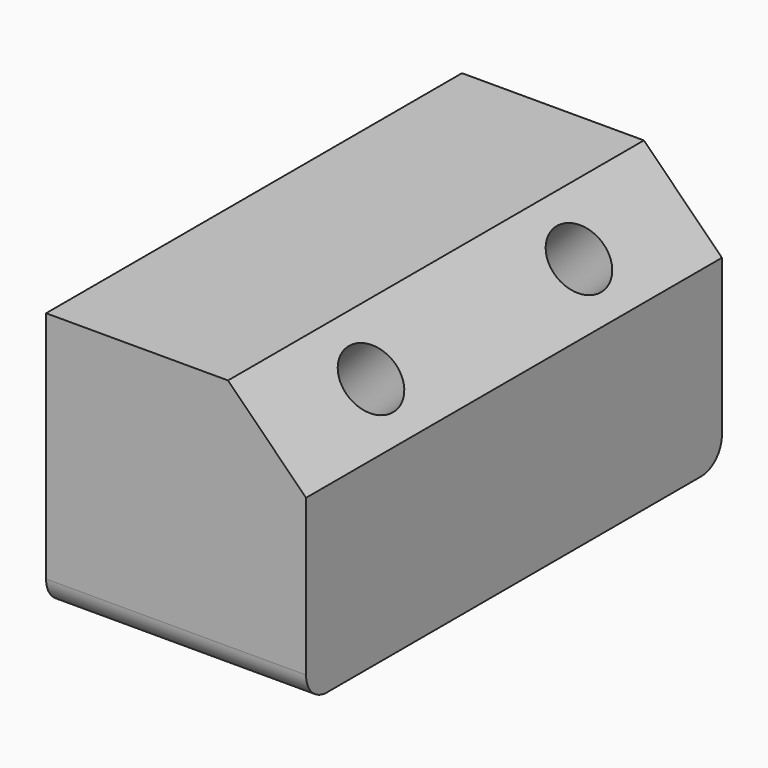
from build123d import *

# Parameters (mm, degrees)
F0_W     = 50
F0_H     = 100
F1_DEPTH = 50
F2_SIZE  = 15
F4_D     = 12
F4_DEPTH = 25
F4_TIP   = 3.6051637142
F5_R     = 5


with BuildPart() as f1:
    # F0 (on Top) → F1 (new body)
    with BuildSketch(Plane.XY):
        with Locations((25, 50)):
            Rectangle(F0_W, F0_H)
    extrude(amount=F1_DEPTH)

    # F2
    f2_edges = [f1.edges().sort_by_distance(p)[0] for p in [
        (50, 50, 50),
    ]]
    chamfer(f2_edges, length=F2_SIZE)

    # F4
    with Locations(Plane(origin=(42.5, 0, 42.5), x_dir=(0, 1, 0), z_dir=(0.7071067812, 0, 0.7071067812))):
        with Locations((25, 0), (75, 0)):
            Hole(F4_D / 2, depth=F4_DEPTH)
            with Locations((0, 0, -(F4_DEPTH + F4_TIP / 2))):  # 118° drill point
                Cone(0, F4_D / 2, F4_TIP, mode=Mode.SUBTRACT)

    # F5
    f5_edges = [f1.edges().sort_by_distance(p)[0] for p in [
        (25, 100, 0),
        (25, 0, 0),
    ]]
    fillet(f5_edges, radius=F5_R)


solid = f1.part
